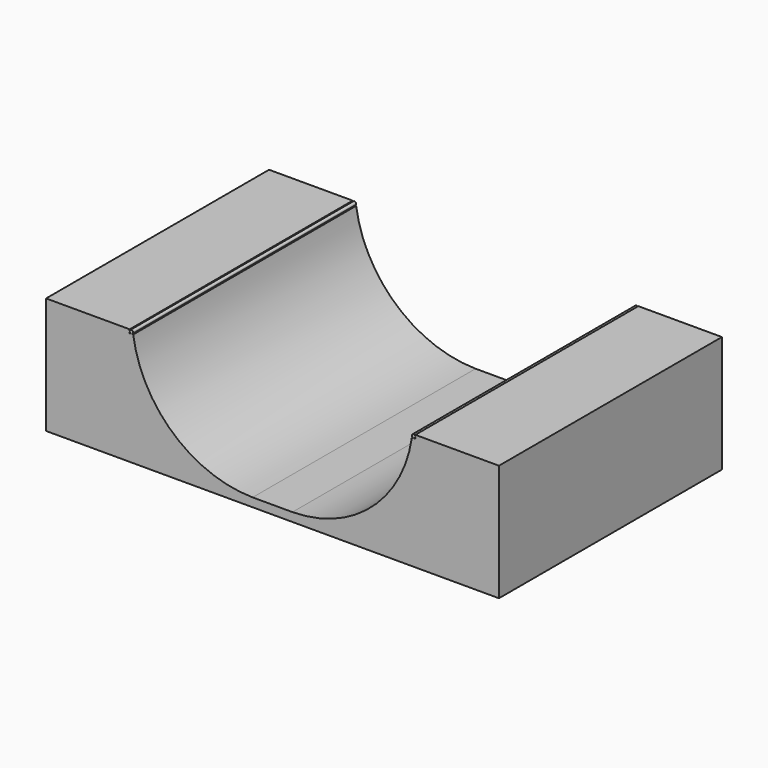
from build123d import *

# Parameters (mm, degrees)
F0_W     = 203.2
F0_H     = 6.35
F1_DEPTH = 101.6
F3_DEPTH = 203.2
F5_DEPTH = 203.2
F6_W     = 60.96
F6_H     = 2.54
F7_DEPTH = 203.2


with BuildPart() as f1:
    # F0 (on Front) → F1 (new body, symmetric)
    with BuildSketch(Plane.XZ):
        with Locations((101.6, 3.175)):
            Rectangle(F0_W, F0_H)
    extrude(amount=F1_DEPTH, both=True)

    # F2 (on face) → F3 (join)
    with BuildSketch(Plane.XZ.offset(101.6)):
        Polygon((0, 6.35), (0, 82.55), (-63.5, 82.55), (-63.5, 0), (0, 0), align=None)
        with BuildLine():
            ThreePointArc((87.0777097162, 6.35), (29.4447475543, 28.3439293371), (0, 82.55))
            Line((0, 82.55), (0, 6.35))
            Line((0, 6.35), (87.0777097162, 6.35))
        make_face()
        with BuildLine():
            ThreePointArc((203.2, 82.55), (173.7552524457, 28.3439293371), (116.1222902838, 6.35))
            Line((116.1222902838, 6.35), (203.2, 6.35))
            Line((203.2, 6.35), (203.2, 82.55))
        make_face()
        Polygon((203.2, 6.35), (203.2, 0), (266.7, 0), (266.7, 82.55), (203.2, 82.55), align=None)
    extrude(amount=-F3_DEPTH)


with BuildPart() as f5:
    # F4 (on face) → F5 (new body)
    with BuildSketch(Plane.XZ.offset(101.6)):
        with BuildLine():
            ThreePointArc((0, 83.82), (-2.1680256121, 84.7180256121), (-1.27, 82.55))
            ThreePointArc((-1.27, 82.55), (-0.3719743879, 82.9219743879), (0, 83.82))
        make_face()
    extrude(amount=-F5_DEPTH)


with BuildPart() as f5b:
    # F4 (on face) → F5, piece 2 (new body)
    with BuildSketch(Plane.XZ.offset(101.6)):
        with BuildLine():
            ThreePointArc((204.47, 82.55), (205.3680256121, 82.9219743879), (205.74, 83.82))
            ThreePointArc((205.74, 83.82), (203.5719743879, 84.7180256121), (204.47, 82.55))
        make_face()
    extrude(amount=-F5_DEPTH)


with BuildPart() as f7:
    # F6 (on face) → F7 (new body)
    with BuildSketch(Plane.XZ.offset(101.6)):
        with Locations((-33.02, 83.82)):
            Rectangle(F6_W, F6_H)
    extrude(amount=-F7_DEPTH)


with BuildPart() as f7b:
    # F6 (on face) → F7, piece 2 (new body)
    with BuildSketch(Plane.XZ.offset(101.6)):
        with Locations((236.22, 83.82)):
            Rectangle(F6_W, F6_H)
    extrude(amount=-F7_DEPTH)


with BuildPart() as f1_1:
    add(f1.part)

    # F8: union F5, F5b, F7, F7b
    add(f5.part)
    add(f5b.part)
    add(f7.part)
    add(f7b.part)


solid = f1_1.part
